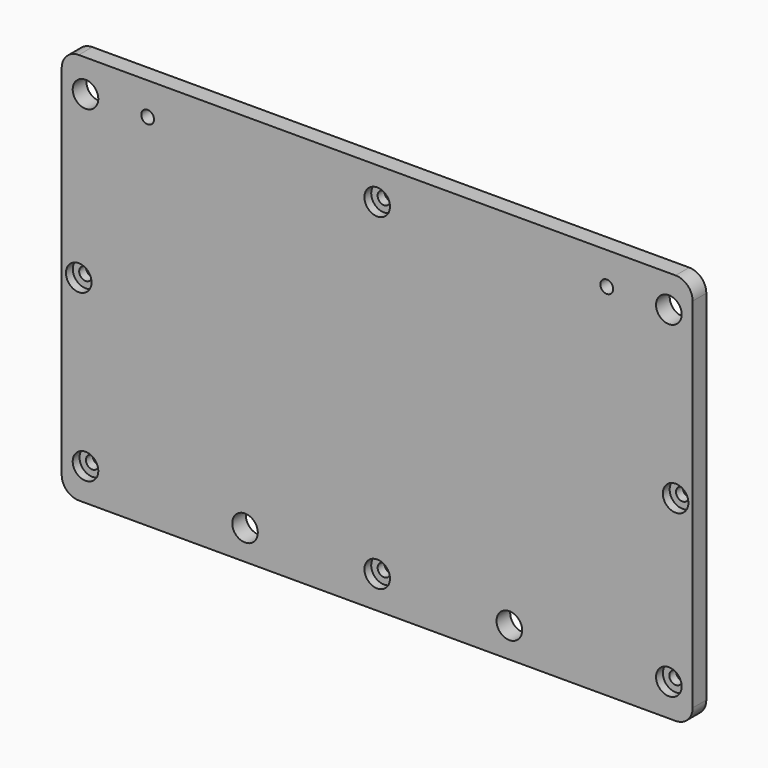
from build123d import *

# Parameters (mm, degrees)
F0_R     = 2.38125
F0_R_2   = 4.7625
F1_DEPTH = 6.35
F2_R     = 4.7625
F3_DEPTH = 3.175
F5_DEPTH = 1.5875


with BuildPart() as f1:
    # F0 (on Front) → F1 (new body)
    with BuildSketch(Plane.XZ):
        with BuildLine():
            Line((123.840723, 73.304202), (-98.409277, 73.304202))
            ThreePointArc((-98.409277, 73.304202), (-102.899405, 71.44433), (-104.759277, 66.954202))
            Line((-104.759277, 66.954202), (-104.759277, -66.395798))
            ThreePointArc((-104.759277, -66.395798), (-102.899405, -70.885926), (-98.409277, -72.745798))
            Line((-98.409277, -72.745798), (123.840723, -72.745798))
            ThreePointArc((123.840723, -72.745798), (128.330851, -70.885926), (130.190723, -66.395798))
            Line((130.190723, -66.395798), (130.190723, 66.954202))
            ThreePointArc((130.190723, 66.954202), (128.330851, 71.44433), (123.840723, 73.304202))
        make_face()
        with Locations((-95.891841, -60.703362)):
            Circle(F0_R, mode=Mode.SUBTRACT)
        with Locations((-36.496777, -61.633298)):
            Circle(F0_R_2, mode=Mode.SUBTRACT)
        with Locations((12.719704, -60.703362)):
            Circle(F0_R, mode=Mode.SUBTRACT)
        with Locations((61.928223, -61.633298)):
            Circle(F0_R_2, mode=Mode.SUBTRACT)
        with Locations((121.323287, -60.703362)):
            Circle(F0_R, mode=Mode.SUBTRACT)
        with Locations((-98.409277, 0.279202)):
            Circle(F0_R, mode=Mode.SUBTRACT)
        with Locations((-95.891841, 61.261766)):
            Circle(F0_R_2, mode=Mode.SUBTRACT)
        with Locations((-72.757799, 61.261766)):
            Circle(F0_R, mode=Mode.SUBTRACT)
        with Locations((123.840723, 0.279202)):
            Circle(F0_R, mode=Mode.SUBTRACT)
        with Locations((12.719704, 61.261766)):
            Circle(F0_R, mode=Mode.SUBTRACT)
        with Locations((98.197206, 61.261766)):
            Circle(F0_R, mode=Mode.SUBTRACT)
        with Locations((121.323287, 61.261766)):
            Circle(F0_R_2, mode=Mode.SUBTRACT)
    extrude(amount=F1_DEPTH)

    # F2 (on face) → F3 (cut)
    with BuildSketch(Plane.XZ.offset(6.35)):
        with Locations((-98.409277, 0.279202)):
            Circle(F2_R)
        with Locations((12.719704, 61.261766)):
            Circle(F2_R)
        with Locations((123.840723, 0.279202)):
            Circle(F2_R)
        with Locations((121.323287, -60.703362)):
            Circle(F2_R)
        with Locations((12.719704, -60.703362)):
            Circle(F2_R)
        with Locations((-95.891841, -60.703362)):
            Circle(F2_R)
    extrude(amount=-F3_DEPTH, mode=Mode.SUBTRACT)

    # F4 (on face) → F5 (cut)
    with BuildSketch(Plane.XZ):
        with BuildLine():
            Line((117.490723, -47.345798), (117.490723, 47.904202))
            ThreePointArc((117.490723, 47.904202), (115.630851, 52.39433), (111.140723, 54.254202))
            Line((111.140723, 54.254202), (-85.709277, 54.254202))
            ThreePointArc((-85.709277, 54.254202), (-90.199405, 52.39433), (-92.059277, 47.904202))
            Line((-92.059277, 47.904202), (-92.059277, -47.345798))
            ThreePointArc((-92.059277, -47.345798), (-90.199405, -51.835926), (-85.709277, -53.695798))
            Line((-85.709277, -53.695798), (111.140723, -53.695798))
            ThreePointArc((111.140723, -53.695798), (115.630851, -51.835926), (117.490723, -47.345798))
        make_face()
        with BuildLine():
            ThreePointArc((111.140723, 51.079202), (113.385787, 50.149266), (114.315723, 47.904202))
            Line((114.315723, 47.904202), (114.315723, -47.345798))
            ThreePointArc((114.315723, -47.345798), (113.385787, -49.590862), (111.140723, -50.520798))
            Line((111.140723, -50.520798), (-85.709277, -50.520798))
            ThreePointArc((-85.709277, -50.520798), (-87.954341, -49.590862), (-88.884277, -47.345798))
            Line((-88.884277, -47.345798), (-88.884277, 47.904202))
            ThreePointArc((-88.884277, 47.904202), (-87.954341, 50.149266), (-85.709277, 51.079202))
            Line((-85.709277, 51.079202), (111.140723, 51.079202))
        make_face(mode=Mode.SUBTRACT)
    extrude(amount=F5_DEPTH, mode=Mode.SUBTRACT)


solid = f1.part
